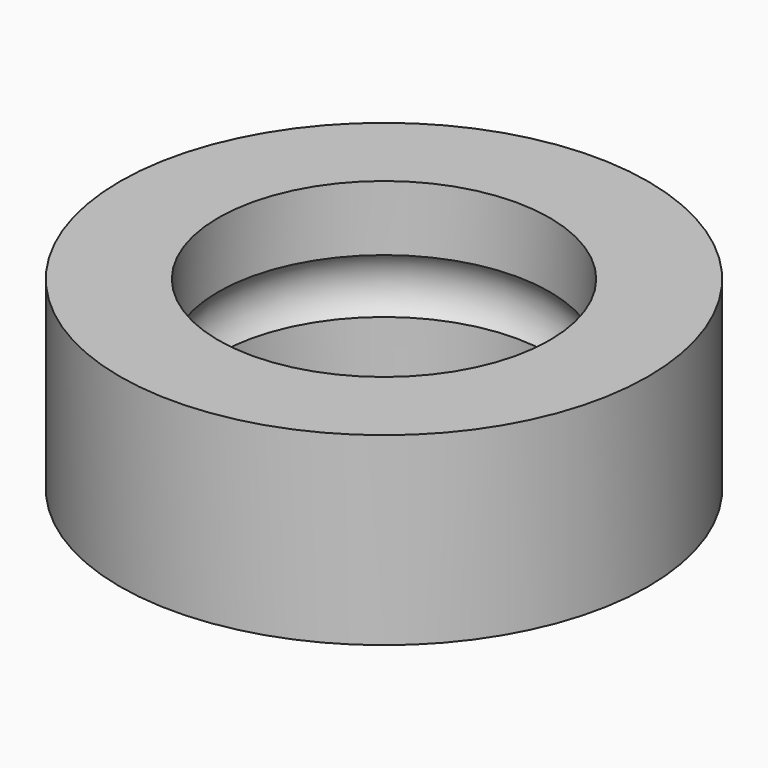
from build123d import *

# Parameters (mm, degrees)
F0_R     = 10
F0_R_2   = 6.275
F1_DEPTH = 7
F2_R     = 1.49


with BuildPart() as f1:
    # F0 (on Top) → F1 (new body)
    with BuildSketch(Plane.XY):
        Circle(F0_R)
        Circle(F0_R_2, mode=Mode.SUBTRACT)
    extrude(amount=F1_DEPTH)

    # F2 (on Front) → F3 (revolve, cut)
    with BuildSketch(Plane.XZ):
        with Locations((-5.2, 3.5)):
            Circle(F2_R)
    revolve(axis=Axis((0, 0, 3.430298), (0, 0, -1)), mode=Mode.SUBTRACT)


solid = f1.part
